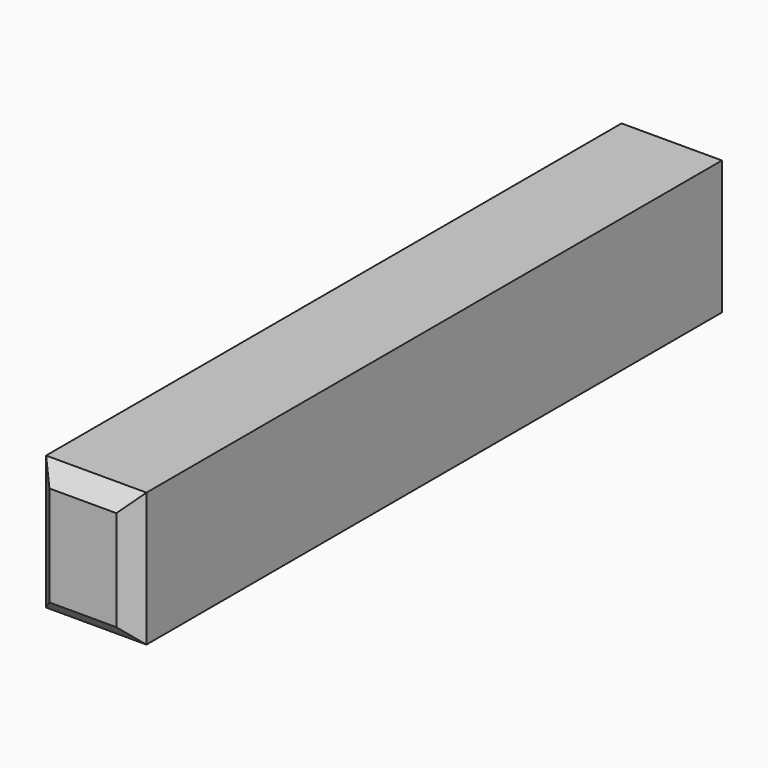
from build123d import *

# Parameters (mm, degrees)
F0_W     = 152.4
F0_H     = 203.2
F1_DEPTH = 1143
F2_SIZE  = 25.4
F3_SIZE  = 25.4
F4_SIZE  = 25.4


with BuildPart() as f1:
    # F0 (on Front) → F1 (new body)
    with BuildSketch(Plane.XZ):
        with Locations((-60.580229, 53.336448)):
            Rectangle(F0_W, F0_H)
    extrude(amount=-F1_DEPTH)

    # F2
    f2_edges = [f1.edges().sort_by_distance(p)[0] for p in [
        (-60.580229, 0, 154.936448),
    ]]
    chamfer(f2_edges, length=F2_SIZE)

    # F3
    f3_edges = [f1.edges().sort_by_distance(p)[0] for p in [
        (-136.780229, 0, 40.636448),
        (-60.580229, 0, -48.263552),
        (15.619771, 0, 40.636448),
    ]]
    chamfer(f3_edges, length=F3_SIZE)

    # F4
    f4_edges = [f1.edges().sort_by_distance(p)[0] for p in [
        (-60.580229, 1143, 154.936448),
        (15.619771, 1143, 53.336448),
        (-60.580229, 1143, -48.263552),
        (-136.780229, 1143, 53.336448),
    ]]
    chamfer(f4_edges, length=F4_SIZE)


solid = f1.part
